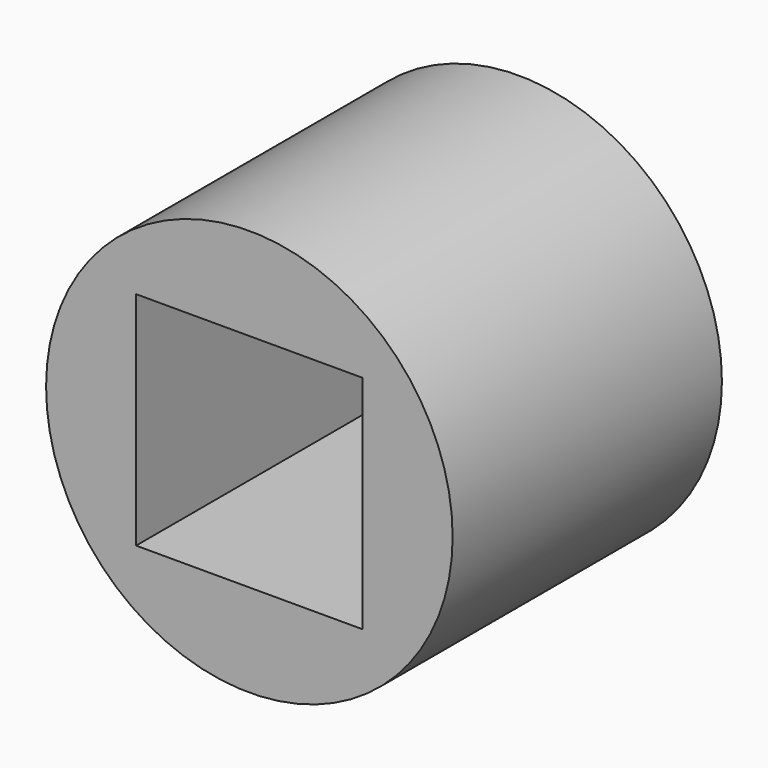
from build123d import *

# Parameters (mm, degrees)
F0_R     = 31.751454
F1_DEPTH = 52.578
F2_W     = 35.38131
F2_H     = 34.577188
F3_DEPTH = 141.478


with BuildPart() as f1:
    # F0 (on Front) → F1 (new body)
    with BuildSketch(Plane.XZ):
        Circle(F0_R)
    extrude(amount=F1_DEPTH)

    # F2 (on face) + F0 (on Front) → F3 (cut)
    with BuildSketch(Plane.XZ.offset(52.578)):
        Rectangle(F2_W, F2_H)
    with BuildSketch(Plane.XZ):
        Circle(F0_R)
    extrude(amount=-F3_DEPTH, mode=Mode.SUBTRACT)


solid = f1.part
